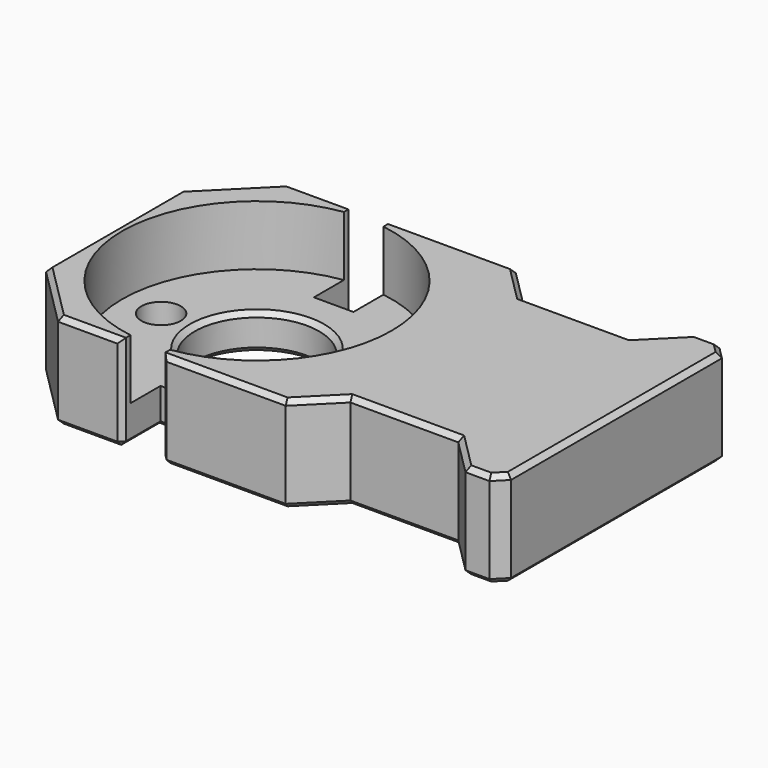
from build123d import *

# Parameters (mm, degrees)
CYLINDER023_R     = 11.25
CYLINDER023_DEPTH = 17
BOX007_W          = 15
BOX007_H          = 4
BOX007_DEPTH      = 20
CHAMFER001_SIZE   = 3
BOX006_W          = 3.3
BOX006_H          = 20
BOX006_DEPTH      = 15
BOX005_W          = 3.3
BOX005_H          = 20
BOX005_DEPTH      = 15
CYLINDER009_R     = 5.2
CYLINDER009_DEPTH = 10
CYLINDER010_R     = 1.65
CYLINDER010_DEPTH = 10
CYLINDER011_R     = 1.65
CYLINDER011_DEPTH = 10
BOX008_W          = 15
BOX008_H          = 4
BOX008_DEPTH      = 20
CHAMFER002_SIZE   = 3
BOX_W             = 42
BOX_H             = 24
BOX_DEPTH         = 8
CHAMFER_SIZE      = 5
CHAMFER008_SIZE   = 1
CHAMFER009_SIZE   = 0.4


with BuildPart() as cylinder023:
    # Cylinder023 → Cylinder023 (new body)
    with BuildSketch(Plane.XY.offset(3)):
        Circle(CYLINDER023_R)
    extrude(amount=CYLINDER023_DEPTH)


with BuildPart() as chamfer001:
    # Box007 → Box007 (new body)
    with BuildSketch(Plane(origin=(15, 12, 0), x_dir=(1, 0, 0), z_dir=(0, 0, 1))):
        with Locations((7.5, 2)):
            Rectangle(BOX007_W, BOX007_H)
    extrude(amount=BOX007_DEPTH)

    # Chamfer001
    chamfer001_edges = [chamfer001.edges().sort_by_distance(p)[0] for p in [
        (15, 12, 10),
        (30, 12, 10),
    ]]
    chamfer(chamfer001_edges, length=CHAMFER001_SIZE)


with BuildPart() as chamfer001_1:
    # Chamfer001 placement: moved
    add(chamfer001.part.moved(Location((-3, -3, 0))))


with BuildPart() as cube006:
    # Box006 → Box006 (new body)
    with BuildSketch(Plane(origin=(-1.65, 8, 0), x_dir=(1, 0, 0), z_dir=(0, 0, 1))):
        with Locations((1.65, 10)):
            Rectangle(BOX006_W, BOX006_H)
    extrude(amount=BOX006_DEPTH)


with BuildPart() as cube005:
    # Box005 → Box005 (new body)
    with BuildSketch(Plane(origin=(-1.65, -28, 0), x_dir=(1, 0, 0), z_dir=(0, 0, 1))):
        with Locations((1.65, 10)):
            Rectangle(BOX005_W, BOX005_H)
    extrude(amount=BOX005_DEPTH)


with BuildPart() as cylinder009:
    # Cylinder009 → Cylinder009 (new body)
    with BuildSketch(Plane.XY):
        Circle(CYLINDER009_R)
    extrude(amount=CYLINDER009_DEPTH)


with BuildPart() as cylinder010:
    # Cylinder010 → Cylinder010 (new body)
    with BuildSketch(Plane(origin=(-8, 0, 0), x_dir=(1, 0, 0), z_dir=(0, 0, 1))):
        Circle(CYLINDER010_R)
    extrude(amount=CYLINDER010_DEPTH)


with BuildPart() as cylinder011:
    # Cylinder011 → Cylinder011 (new body)
    with BuildSketch(Plane(origin=(8, 0, 0), x_dir=(1, 0, 0), z_dir=(0, 0, 1))):
        Circle(CYLINDER011_R)
    extrude(amount=CYLINDER011_DEPTH)


with BuildPart() as fusion014:
    # Box008 → Box008 (new body)
    with BuildSketch(Plane(origin=(15, -16, 0), x_dir=(1, 0, 0), z_dir=(0, 0, 1))):
        with Locations((7.5, 2)):
            Rectangle(BOX008_W, BOX008_H)
    extrude(amount=BOX008_DEPTH)

    # Chamfer002
    chamfer002_edges = [fusion014.edges().sort_by_distance(p)[0] for p in [
        (15, -12, 10),
        (30, -12, 10),
    ]]
    chamfer(chamfer002_edges, length=CHAMFER002_SIZE)


with BuildPart() as fusion014_1:
    # Chamfer002 placement: moved
    add(fusion014.part.moved(Location((-3, 3, 0))))

    # Fusion014: union Chamfer001, Cube006, Cube005, Cylinder009, Cylinder010, Cylinder011
    add(chamfer001_1.part)
    add(cube006.part)
    add(cube005.part)
    add(cylinder009.part)
    add(cylinder010.part)
    add(cylinder011.part)


with BuildPart() as supporter:
    # Box → Box (new body)
    with BuildSketch(Plane(origin=(-12, -12, 0), x_dir=(1, 0, 0), z_dir=(0, 0, 1))):
        with Locations((21, 12)):
            Rectangle(BOX_W, BOX_H)
    extrude(amount=BOX_DEPTH)

    # Cut: cut Fusion014
    add(fusion014_1.part, mode=Mode.SUBTRACT)

    # Cut017021004: cut Cylinder023
    add(cylinder023.part, mode=Mode.SUBTRACT)

    # Chamfer
    chamfer_edges = [supporter.edges().sort_by_distance(p)[0] for p in [
        (-12, -12, 4),
        (-12, 12, 4),
    ]]
    chamfer(chamfer_edges, length=CHAMFER_SIZE)

    # Chamfer008
    chamfer008_edges = [supporter.edges().sort_by_distance(p)[0] for p in [
        (30, 12, 4),
        (30, -12, 4),
    ]]
    chamfer(chamfer008_edges, length=CHAMFER008_SIZE)

    # Chamfer009
    chamfer009_edges = [supporter.edges().sort_by_distance(p)[0] for p in [
        (28, 12, 0),
        (29.5, 11.5, 0),
        (25.5, 10.5, 0),
        (30, 0, 0),
        (19.5, 9, 0),
        (29.5, -11.5, 0),
        (13.5, 10.5, 0),
        (28, -12, 0),
        (6.825, 12, 0),
        (25.5, -10.5, 0),
        (1.65, 10, 0),
        (19.5, -9, 0),
        (0, 8, 0),
        (13.5, -10.5, 0),
        (-1.65, 10, 0),
        (6.825, -12, 0),
        (-4.325, 12, 0),
        (1.65, -10, 0),
        (-9.5, 9.5, 0),
        (0, -8, 0),
        (-12, 0, 0),
        (-1.65, -10, 0),
        (-9.5, -9.5, 0),
        (-4.325, -12, 0),
        (6.35, 0, 0),
        (-5.2, 0, 0),
        (-9.65, 0, 0),
        (28, 12, 8),
        (29.5, 11.5, 8),
        (25.5, 10.5, 8),
        (30, 0, 8),
        (19.5, 9, 8),
        (29.5, -11.5, 8),
        (13.5, 10.5, 8),
        (28, -12, 8),
        (6.825, 12, 8),
        (1.65, 12, 4),
        (25.5, -10.5, 8),
        (19.5, -9, 8),
        (13.5, -10.5, 8),
        (-1.65, 12, 4),
        (6.825, -12, 8),
        (1.65, -12, 4),
        (-4.325, 12, 8),
        (-9.5, 9.5, 8),
        (-12, 0, 8),
        (-1.65, -12, 4),
        (-9.5, -9.5, 8),
        (-4.325, -12, 8),
        (-5.2, 0, 3),
    ]]
    chamfer(chamfer009_edges, length=CHAMFER009_SIZE)


solid = supporter.part
